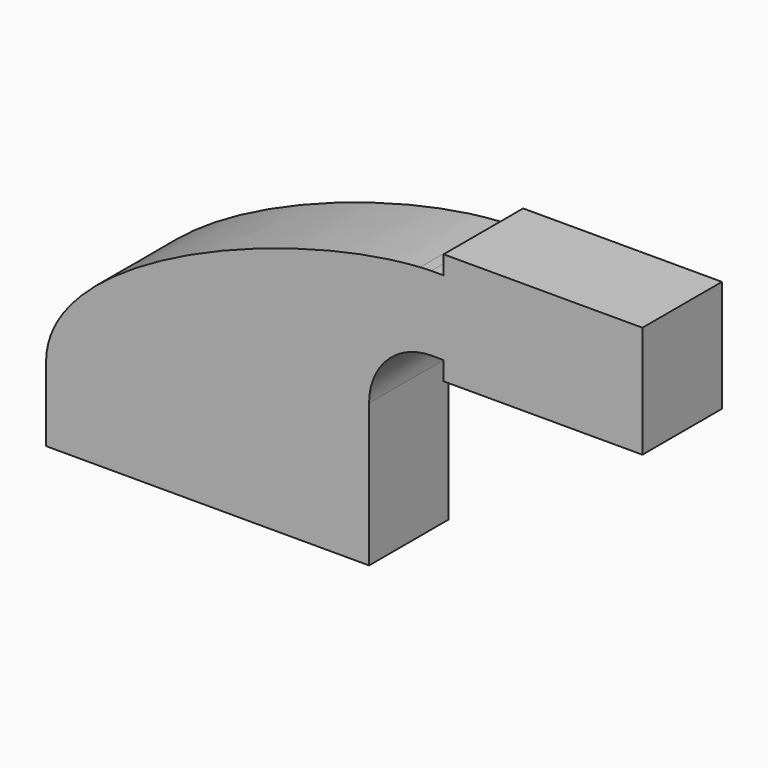
from build123d import *

# Parameters (mm, degrees)
F0_W     = 18.0161866653
F0_H     = 19.05
F0_H_2   = 4.7498
F0_H_3   = 4.7752
F1_DEPTH = 25.4


with BuildPart() as f1:
    # F0 (on Front) → F1 (new body)
    with BuildSketch(Plane.XZ):
        Polygon((-41.275, 9.525), (-41.275, -9.525), (41.275, -9.525), (41.275, 9.525), (22.225, 9.525), align=None)
        with BuildLine():
            add(Edge.make_bspline(
                [(-41.275, 9.525), (-41.1591837702, 35.9769959962), (21.3881129602, 59.8555972183), (54.3152436271, 61.8099656026)],
                knots=[0, 0, 0, 0, 108.3089583002, 108.3089583002, 108.3089583002, 108.3089583002], degree=3))
            Line((-41.275, 9.525), (22.225, 9.525))
            Line((22.225, 9.525), (22.225, 27.0002))
            ThreePointArc((22.225, 27.0002), (31.4716093639, 50.6724597007), (54.3152436271, 61.8099656026))
        make_face()
        with BuildLine():
            Line((22.225, 9.525), (41.275, 9.525))
            Line((41.275, 9.525), (41.275, 27.0002))
            ThreePointArc((41.275, 27.0002), (45.9246798487, 38.2255201513), (57.15, 42.8752))
            Line((57.15, 42.8752), (60.325, 42.8752))
            Line((60.325, 42.8752), (60.325, 61.9252))
            Line((60.325, 61.9252), (57.15, 61.9252))
            add(Edge.make_bspline(
                [(54.3152436271, 61.8099656026), (55.2867349194, 61.8676278352), (56.2324417814, 61.9062049671), (57.15, 61.9252)],
                knots=[108.3089583002, 108.3089583002, 108.3089583002, 108.3089583002, 111.5045361635, 111.5045361635, 111.5045361635, 111.5045361635], degree=3))
            ThreePointArc((54.3152436271, 61.8099656026), (31.4716093639, 50.6724597007), (22.225, 27.0002))
            Line((22.225, 27.0002), (22.225, 9.525))
        make_face()
        with BuildLine():
            ThreePointArc((57.15, 61.9252), (55.7314512116, 61.8963795092), (54.3152436271, 61.8099656026))
            add(Edge.make_bspline(
                [(54.3152436271, 61.8099656026), (55.2867349194, 61.8676278352), (56.2324417814, 61.9062049671), (57.15, 61.9252)],
                knots=[108.3089583002, 108.3089583002, 108.3089583002, 108.3089583002, 111.5045361635, 111.5045361635, 111.5045361635, 111.5045361635], degree=3))
        make_face()
        with Locations((69.3330933327, 52.4002)):
            Rectangle(F0_W, F0_H)
        with Locations((69.3330933327, 64.3001)):
            Rectangle(F0_W, F0_H_2)
        with Locations((69.3330933327, 40.4876)):
            Rectangle(F0_W, F0_H_3)
        Polygon((78.3411866653, 66.675), (78.3411866653, 61.9252), (78.3411866653, 42.8752), (78.3411866653, 38.1), (111.125, 38.1), (111.125, 66.675), align=None)
    extrude(amount=F1_DEPTH)


solid = f1.part
